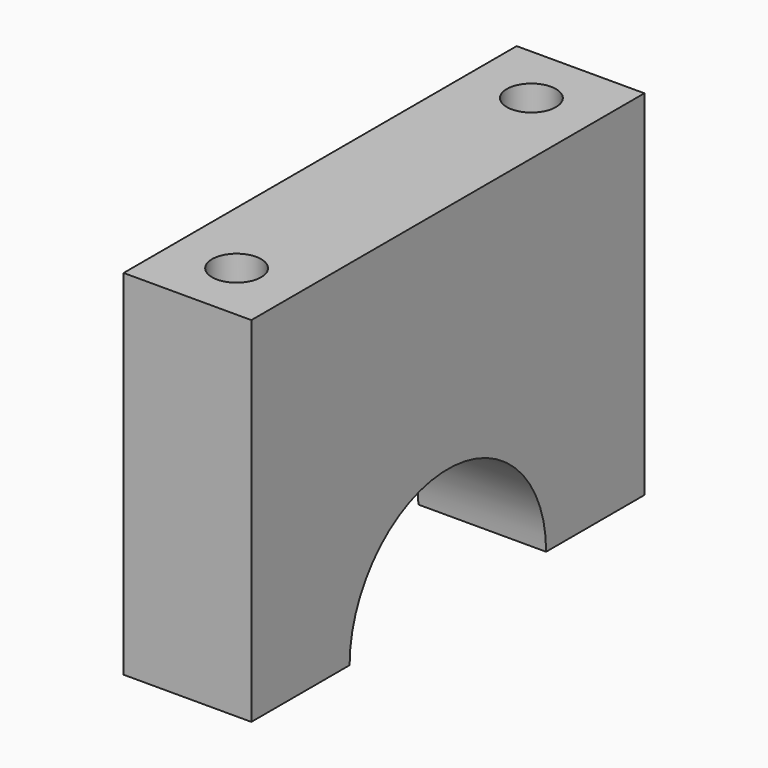
from build123d import *

# Parameters (mm, degrees)
F1_DEPTH = 13
F2_R     = 2.5
F4_DEPTH = 36
F3_R     = 2.5
F5_DEPTH = 36


with BuildPart() as f1:
    # F0 (on Right) → F1 (new body)
    with BuildSketch(Plane.YZ):
        with BuildLine():
            Line((3.351025, 17.020911), (-46.648975, 17.020911))
            Line((-46.648975, 17.020911), (-46.648975, -18.979089))
            Line((-46.648975, -18.979089), (-34.148975, -18.979089))
            ThreePointArc((-34.148975, -18.979089), (-21.648975, -6.479089), (-9.148975, -18.979089))
            Line((-9.148975, -18.979089), (3.351025, -18.979089))
            Line((3.351025, -18.979089), (3.351025, 17.020911))
        make_face()
    extrude(amount=F1_DEPTH)

    # F2 (on face) → F4 (cut)
    with BuildSketch(Plane(origin=(0, 0, -18.979089), x_dir=(1, 0, 0), z_dir=(0, 0, -1))):
        with Locations((6.5, 40.398975)):
            Circle(F2_R)
    extrude(amount=-F4_DEPTH, mode=Mode.SUBTRACT)

    # F3 (on face) → F5 (cut)
    with BuildSketch(Plane(origin=(0, 0, -18.979089), x_dir=(1, 0, 0), z_dir=(0, 0, -1))):
        with Locations((6.5, 2.898975)):
            Circle(F3_R)
    extrude(amount=-F5_DEPTH, mode=Mode.SUBTRACT)


solid = f1.part
